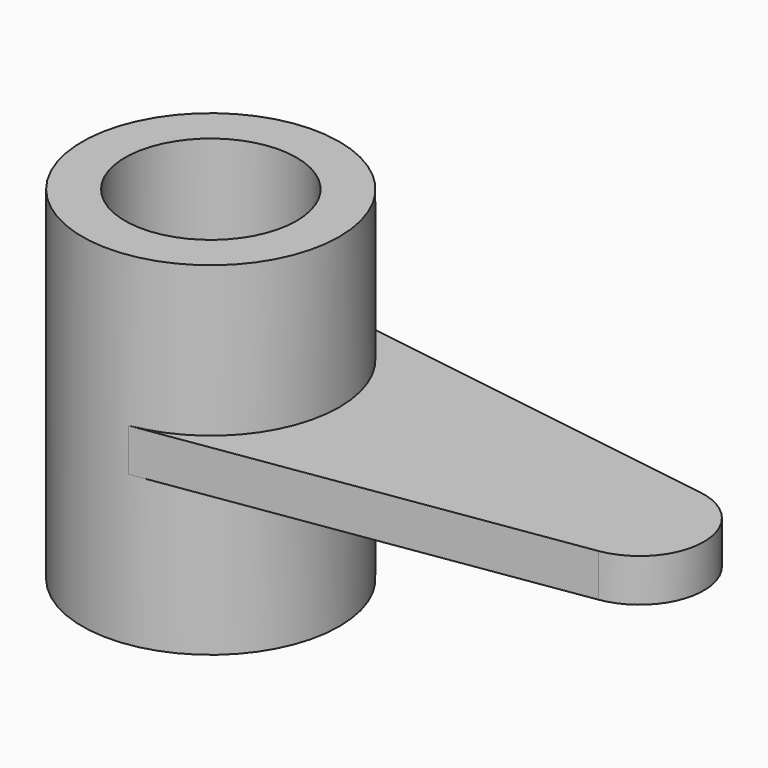
from build123d import *

# Parameters (mm, degrees)
F0_R     = 38.1
F0_R_2   = 25.4
F1_DEPTH = 101.6
F3_R     = 25.4
F4_DEPTH = 6.35


with BuildPart() as f1:
    # F0 (on Top) → F1 (new body)
    with BuildSketch(Plane.XY):
        Circle(F0_R)
        Circle(F0_R_2, mode=Mode.SUBTRACT)
    extrude(amount=F1_DEPTH)

    # F3 (on offset) → F4 (join, symmetric)
    with BuildSketch(Plane.XY.offset(50.8)):
        with BuildLine():
            ThreePointArc((5.715, -37.668936), (28.890755, -24.838161), (38.1, 0))
            ThreePointArc((38.1, 0), (28.890755, 24.838161), (5.715, 37.668936))
            ThreePointArc((5.715, 37.668936), (-38.1, 0), (5.715, -37.668936))
        make_face()
        Circle(F3_R, mode=Mode.SUBTRACT)
        with BuildLine():
            ThreePointArc((5.715, 37.668936), (28.890755, 24.838161), (38.1, 0))
            ThreePointArc((38.1, 0), (28.890755, -24.838161), (5.715, -37.668936))
            Line((5.715, -37.668936), (129.8575, -18.834468))
            ThreePointArc((129.8575, -18.834468), (146.05, 0), (129.8575, 18.834468))
            Line((129.8575, 18.834468), (5.715, 37.668936))
        make_face()
    extrude(amount=F4_DEPTH, both=True)


solid = f1.part
